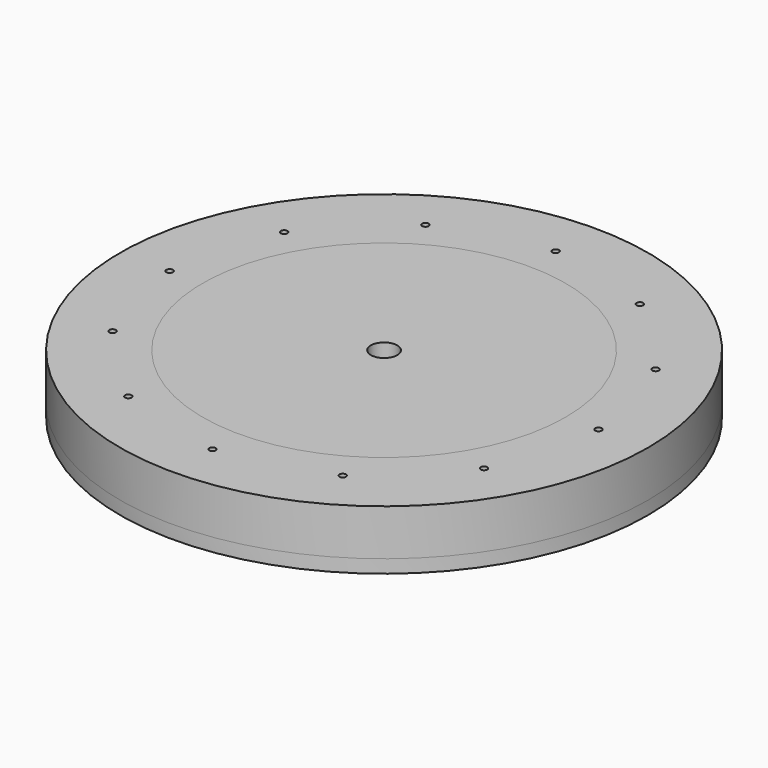
from build123d import *

# Parameters (mm, degrees)
F0_R     = 50
F0_R_2   = 19
F0_R_3   = 4
F1_DEPTH = 18
F2_DEPTH = 9
F0_R_4   = 80
F0_R_5   = 73
F0_R_6   = 1
F0_R_7   = 55
F3_DEPTH = 18
F4_DEPTH = 10
F5_DEPTH = 18
F6_DEPTH = 4


with BuildPart() as f1:
    # F0 (on Top) → F1 (new body)
    with BuildSketch(Plane.XY):
        Circle(F0_R)
        Circle(F0_R_2, mode=Mode.SUBTRACT)
        Polygon((3.367137, 41.544102), (4.661232, 46.373731), (19.15012, 42.491445), (17.856025, 37.661816), align=None, mode=Mode.SUBTRACT)
        Circle(F0_R_2)
        Circle(F0_R_3, mode=Mode.SUBTRACT)
        Polygon((19.15012, 42.491445), (4.661232, 46.373731), (3.367137, 41.544102), (17.856025, 37.661816), align=None)
    extrude(amount=F1_DEPTH)

    # F0 (on Top) → F2 (cut)
    with BuildSketch(Plane.XY):
        Circle(F0_R_2)
        Circle(F0_R_3, mode=Mode.SUBTRACT)
    extrude(amount=F2_DEPTH, mode=Mode.SUBTRACT)


with BuildPart() as f3:
    # F0 (on Top) → F3 (new body)
    with BuildSketch(Plane.XY):
        Circle(F0_R_4)
        Circle(F0_R_5, mode=Mode.SUBTRACT)
        Circle(F0_R_5)
        with Locations((-32.5, -56.291651)):
            Circle(F0_R_6, mode=Mode.SUBTRACT)
        with Locations((-56.291651, -32.5)):
            Circle(F0_R_6, mode=Mode.SUBTRACT)
        with Locations((0, -65)):
            Circle(F0_R_6, mode=Mode.SUBTRACT)
        with Locations((32.5, -56.291651)):
            Circle(F0_R_6, mode=Mode.SUBTRACT)
        with Locations((56.291651, -32.5)):
            Circle(F0_R_6, mode=Mode.SUBTRACT)
        with Locations((-65, 0)):
            Circle(F0_R_6, mode=Mode.SUBTRACT)
        with Locations((-56.291651, 32.5)):
            Circle(F0_R_6, mode=Mode.SUBTRACT)
        with Locations((-32.5, 56.291651)):
            Circle(F0_R_6, mode=Mode.SUBTRACT)
        Circle(F0_R_7, mode=Mode.SUBTRACT)
        with Locations((65, 0)):
            Circle(F0_R_6, mode=Mode.SUBTRACT)
        with Locations((56.291651, 32.5)):
            Circle(F0_R_6, mode=Mode.SUBTRACT)
        with Locations((32.5, 56.291651)):
            Circle(F0_R_6, mode=Mode.SUBTRACT)
        with Locations((0, 65)):
            Circle(F0_R_6, mode=Mode.SUBTRACT)
        Circle(F0_R_7)
        Circle(F0_R, mode=Mode.SUBTRACT)
        Circle(F0_R)
        Circle(F0_R_2, mode=Mode.SUBTRACT)
        Polygon((3.367137, 41.544102), (4.661232, 46.373731), (19.15012, 42.491445), (17.856025, 37.661816), align=None, mode=Mode.SUBTRACT)
        Circle(F0_R_2)
        Circle(F0_R_3, mode=Mode.SUBTRACT)
        Polygon((19.15012, 42.491445), (4.661232, 46.373731), (3.367137, 41.544102), (17.856025, 37.661816), align=None)
    extrude(amount=F3_DEPTH)

    # F0 (on Top) → F4 (cut)
    with BuildSketch(Plane.XY):
        Circle(F0_R_4)
        Circle(F0_R_5, mode=Mode.SUBTRACT)
    extrude(amount=F4_DEPTH, mode=Mode.SUBTRACT)


with BuildPart() as f5:
    # F0 (on Top) → F5 (new body)
    with BuildSketch(Plane.XY):
        Circle(F0_R_4)
        Circle(F0_R_5, mode=Mode.SUBTRACT)
        Circle(F0_R_5)
        with Locations((-32.5, -56.291651)):
            Circle(F0_R_6, mode=Mode.SUBTRACT)
        with Locations((-56.291651, -32.5)):
            Circle(F0_R_6, mode=Mode.SUBTRACT)
        with Locations((0, -65)):
            Circle(F0_R_6, mode=Mode.SUBTRACT)
        with Locations((32.5, -56.291651)):
            Circle(F0_R_6, mode=Mode.SUBTRACT)
        with Locations((56.291651, -32.5)):
            Circle(F0_R_6, mode=Mode.SUBTRACT)
        with Locations((-65, 0)):
            Circle(F0_R_6, mode=Mode.SUBTRACT)
        with Locations((-56.291651, 32.5)):
            Circle(F0_R_6, mode=Mode.SUBTRACT)
        with Locations((-32.5, 56.291651)):
            Circle(F0_R_6, mode=Mode.SUBTRACT)
        Circle(F0_R_7, mode=Mode.SUBTRACT)
        with Locations((65, 0)):
            Circle(F0_R_6, mode=Mode.SUBTRACT)
        with Locations((56.291651, 32.5)):
            Circle(F0_R_6, mode=Mode.SUBTRACT)
        with Locations((32.5, 56.291651)):
            Circle(F0_R_6, mode=Mode.SUBTRACT)
        with Locations((0, 65)):
            Circle(F0_R_6, mode=Mode.SUBTRACT)
    extrude(amount=F5_DEPTH)


with BuildPart() as f6:
    # F0 (on Top) → F6 (new body)
    with BuildSketch(Plane.XY):
        Circle(F0_R_4)
        Circle(F0_R_5, mode=Mode.SUBTRACT)
        Circle(F0_R_5)
        with Locations((-32.5, -56.291651)):
            Circle(F0_R_6, mode=Mode.SUBTRACT)
        with Locations((-56.291651, -32.5)):
            Circle(F0_R_6, mode=Mode.SUBTRACT)
        with Locations((0, -65)):
            Circle(F0_R_6, mode=Mode.SUBTRACT)
        with Locations((32.5, -56.291651)):
            Circle(F0_R_6, mode=Mode.SUBTRACT)
        with Locations((56.291651, -32.5)):
            Circle(F0_R_6, mode=Mode.SUBTRACT)
        with Locations((-65, 0)):
            Circle(F0_R_6, mode=Mode.SUBTRACT)
        with Locations((-56.291651, 32.5)):
            Circle(F0_R_6, mode=Mode.SUBTRACT)
        with Locations((-32.5, 56.291651)):
            Circle(F0_R_6, mode=Mode.SUBTRACT)
        Circle(F0_R_7, mode=Mode.SUBTRACT)
        with Locations((65, 0)):
            Circle(F0_R_6, mode=Mode.SUBTRACT)
        with Locations((56.291651, 32.5)):
            Circle(F0_R_6, mode=Mode.SUBTRACT)
        with Locations((32.5, 56.291651)):
            Circle(F0_R_6, mode=Mode.SUBTRACT)
        with Locations((0, 65)):
            Circle(F0_R_6, mode=Mode.SUBTRACT)
        Circle(F0_R_7)
        Circle(F0_R, mode=Mode.SUBTRACT)
        Circle(F0_R)
        Circle(F0_R_2, mode=Mode.SUBTRACT)
        Polygon((3.367137, 41.544102), (4.661232, 46.373731), (19.15012, 42.491445), (17.856025, 37.661816), align=None, mode=Mode.SUBTRACT)
        Circle(F0_R_2)
        Circle(F0_R_3, mode=Mode.SUBTRACT)
        Circle(F0_R_3)
    extrude(amount=F6_DEPTH)


solid = Compound([f1.part, f3.part, f5.part, f6.part])
